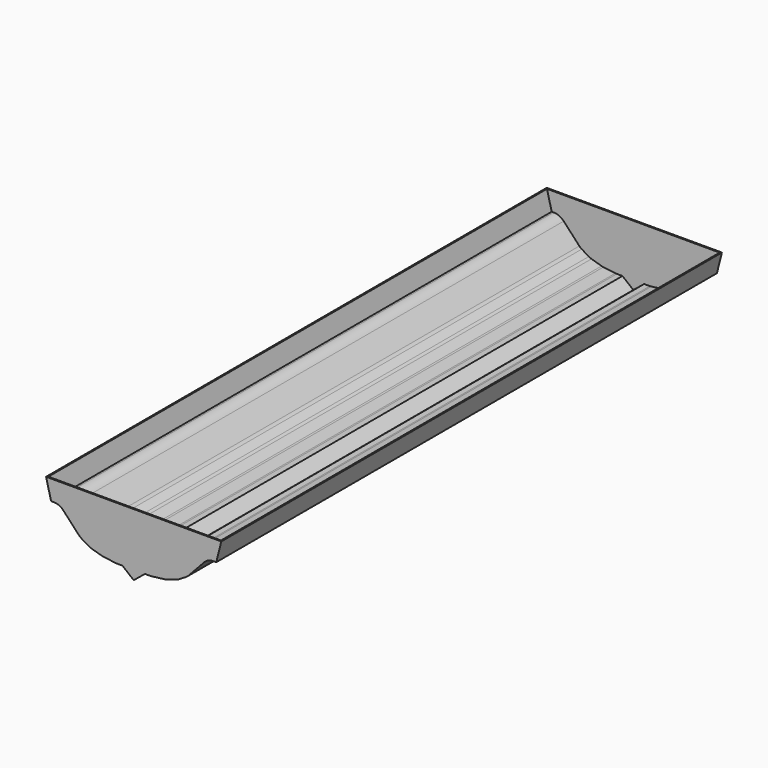
from build123d import *

# Parameters (mm, degrees)
F2_DEPTH = 5000
F3_T     = -10


with BuildPart() as f2:
    # F0 (on Front) → F2 (new body)
    with BuildSketch(Plane.XZ):
        with BuildLine():
            Line((-90.3032645583, 73.3521804214), (0, 0))
            Line((0, 0), (0, 500))
            Line((0, 500), (-700, 500))
            Line((-700, 500), (-659.9707603455, 341.3078779773))
            Line((-659.9707603455, 341.3078779773), (-636.6021653731, 341.3078779773))
            ThreePointArc((-636.6021653731, 341.3078779773), (-596.6712163725, 332.9894972469), (-563.3834841061, 309.4182642155))
            Line((-563.3834841061, 309.4182642155), (-438.5016734996, 175.1702883654))
            ThreePointArc((-438.5016734996, 175.1702883654), (-428.3932790461, 165.710759699), (-417.0752981876, 157.7379540258))
            Line((-417.0752981876, 157.7379540258), (-360.7167568947, 123.615368327))
            ThreePointArc((-360.7167568947, 123.615368327), (-349.2423377723, 117.6459694815), (-337.0934164626, 113.2075319426))
            Line((-337.0934164626, 113.2075319426), (-256.349216299, 89.5028171123))
            ThreePointArc((-256.349216299, 89.5028171123), (-248.5831629557, 87.5568921429), (-240.6863306004, 86.2384660848))
            Line((-240.6863306004, 86.2384660848), (-144.6835198288, 74.1372724315))
            ThreePointArc((-144.6835198288, 74.1372724315), (-138.4427891974, 73.5486464183), (-132.1774400044, 73.3521804214))
            Line((-132.1774400044, 73.3521804214), (-90.3032645583, 73.3521804214))
        make_face()
        with BuildLine():
            Line((0, 500), (0, 0))
            Line((0, 0), (90.3032645583, 73.3521804214))
            Line((90.3032645583, 73.3521804214), (132.1774400044, 73.3521804214))
            ThreePointArc((132.1774400044, 73.3521804214), (138.4427891974, 73.5486464183), (144.6835198288, 74.1372724315))
            Line((144.6835198288, 74.1372724315), (248.6487627029, 87.2421339154))
            Line((248.6487627029, 87.2421339154), (337.0934164626, 113.2075319426))
            ThreePointArc((337.0934164626, 113.2075319426), (349.2423377723, 117.6459694815), (360.7167568947, 123.615368327))
            Line((360.7167568947, 123.615368327), (417.0752981876, 157.7379540258))
            ThreePointArc((417.0752981876, 157.7379540258), (428.3932790461, 165.710759699), (438.5016734996, 175.1702883654))
            Line((438.5016734996, 175.1702883654), (563.3834841061, 309.4182642155))
            ThreePointArc((563.3834841061, 309.4182642155), (596.6712163725, 332.9894972469), (636.6021653731, 341.3078779773))
            Line((636.6021653731, 341.3078779773), (659.9707603455, 341.3078779773))
            Line((659.9707603455, 341.3078779773), (700, 500))
            Line((700, 500), (0, 500))
        make_face()
    extrude(amount=F2_DEPTH)

    # F3
    f3_openings = [f2.faces().sort_by_distance(p)[0] for p in [
        (0, -2500, 500),
    ]]
    offset(amount=F3_T, openings=f3_openings, kind=Kind.INTERSECTION)


solid = f2.part
